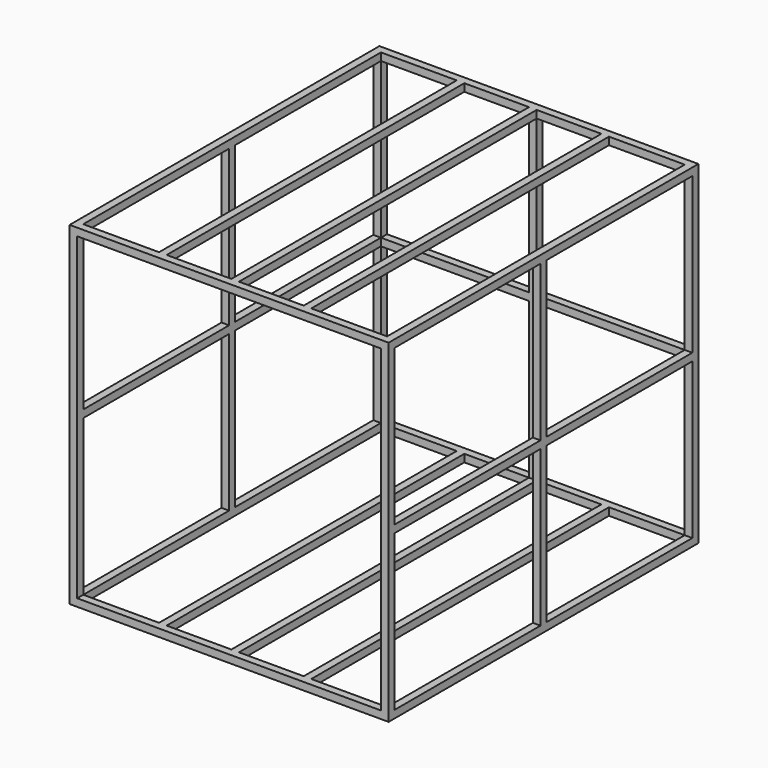
from build123d import *

# Parameters (mm, degrees)
F0_W      = 2137.664
F0_H      = 2594.864
F0_W_2    = 50.8
F0_H_2    = 2493.264
F1_DEPTH  = 50.8
F2_W      = 50.8
F2_H      = 50.8
F3_DEPTH  = 2135.632
F4_W      = 433.832
F4_H      = 2493.264
F5_DEPTH  = 50.8
F6_W      = 50.8
F6_H      = 50.8
F7_DEPTH  = 2493.264
F8_W      = 50.8
F8_H      = 50.8
F9_DEPTH  = 2493.264
F10_W     = 50.8
F10_H     = 50.8
F11_DEPTH = 2036.064


with BuildPart() as f1:
    # F0 (on Top) → F1 (new body)
    with BuildSketch(Plane.XY):
        Rectangle(F0_W, F0_H)
        Polygon((-1018.032, -1246.632), (-1018.032, 1246.632), (-510.032, 1246.632), (-459.232, 1246.632), (-25.4, 1246.632), (25.4, 1246.632), (459.232, 1246.632), (510.032, 1246.632), (1018.032, 1246.632), (1018.032, -1246.632), (510.032, -1246.632), (459.232, -1246.632), (25.4, -1246.632), (-25.4, -1246.632), (-459.232, -1246.632), (-510.032, -1246.632), align=None, mode=Mode.SUBTRACT)
        with Locations((-484.632, 0)):
            Rectangle(F0_W_2, F0_H_2)
        Rectangle(F0_W_2, F0_H_2)
        with Locations((484.632, 0)):
            Rectangle(F0_W_2, F0_H_2)
    extrude(amount=F1_DEPTH)

    # F2 (on face) → F3 (join)
    with BuildSketch(Plane.XY.offset(50.8)):
        with Locations((-1043.432, 1272.032)):
            Rectangle(F2_W, F2_H)
        with Locations((1043.432, 1272.032)):
            Rectangle(F2_W, F2_H)
        with Locations((1043.432, -1272.032)):
            Rectangle(F2_W, F2_H)
        with Locations((-1043.432, -1272.032)):
            Rectangle(F2_W, F2_H)
        with Locations((-1043.432, 0)):
            Rectangle(F2_W, F2_H)
        with Locations((1043.432, 0)):
            Rectangle(F2_W, F2_H)
        with Locations((0, 1272.032)):
            Rectangle(F2_W, F2_H)
    extrude(amount=F3_DEPTH)

    # F4 (on face) → F5 (join)
    with BuildSketch(Plane.XY.offset(2186.432)):
        Polygon((-1068.832, 1297.432), (-1068.832, 1246.632), (-1068.832, 25.4), (-1068.832, -25.4), (-1068.832, -1246.632), (-1068.832, -1297.432), (-1018.032, -1297.432), (1018.032, -1297.432), (1068.832, -1297.432), (1068.832, -1246.632), (1068.832, -25.4), (1068.832, 25.4), (1068.832, 1246.632), (1068.832, 1297.432), (1018.032, 1297.432), (25.4, 1297.432), (-25.4, 1297.432), (-1018.032, 1297.432), align=None)
        Polygon((-1018.032, 25.4), (-1018.032, 1246.632), (-510.032, 1246.632), (-510.032, -1246.632), (-1018.032, -1246.632), (-1018.032, -25.4), align=None, mode=Mode.SUBTRACT)
        with Locations((-242.316, 0)):
            Rectangle(F4_W, F4_H, mode=Mode.SUBTRACT)
        with Locations((242.316, 0)):
            Rectangle(F4_W, F4_H, mode=Mode.SUBTRACT)
        Polygon((1018.032, -25.4), (1018.032, -1246.632), (510.032, -1246.632), (510.032, 1246.632), (1018.032, 1246.632), (1018.032, 25.4), align=None, mode=Mode.SUBTRACT)
    extrude(amount=F5_DEPTH)

    # F6 (on face) → F7 (join, through all)
    with BuildSketch(Plane.XZ.offset(-1246.632)):
        with Locations((-1043.432, 1118.616)):
            Rectangle(F6_W, F6_H)
    extrude(amount=F7_DEPTH)

    # F8 (on face) → F9 (join, through all)
    with BuildSketch(Plane.XZ.offset(-1246.632)):
        with Locations((1043.432, 1118.616)):
            Rectangle(F8_W, F8_H)
    extrude(amount=F9_DEPTH)

    # F10 (on face) → F11 (join, through all)
    with BuildSketch(Plane.YZ.offset(-1018.032)):
        with Locations((1272.032, 1118.616)):
            Rectangle(F10_W, F10_H)
    extrude(amount=F11_DEPTH)


solid = f1.part
